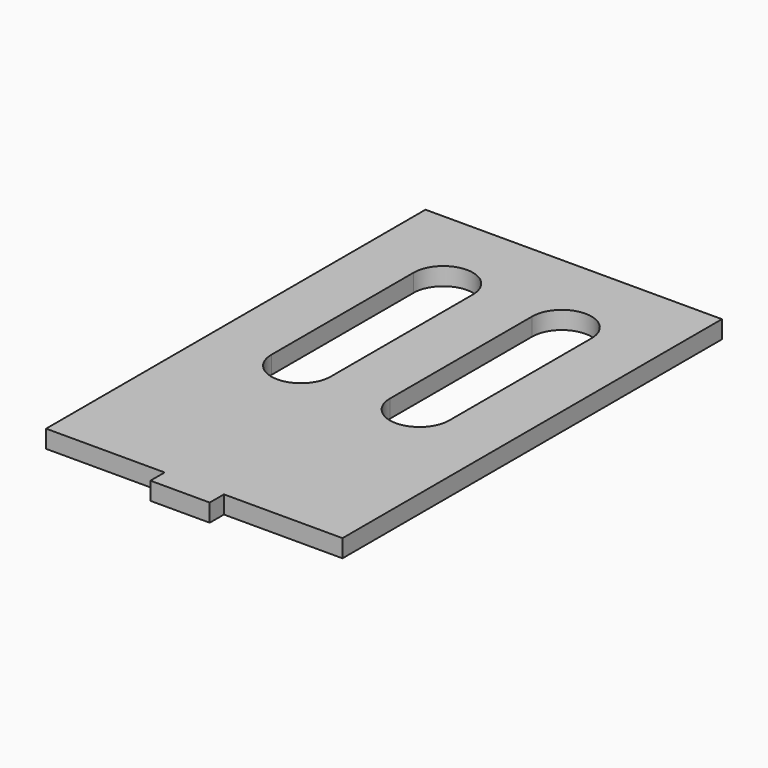
from build123d import *

# Parameters (mm, degrees)
F1_DEPTH = 3
F3_DEPTH = 3


with BuildPart() as f1:
    # F0 (on Top) → F1 (new body)
    with BuildSketch(Plane.XY):
        Polygon((25, -40), (25, 40), (-25, 40), (-25, -40), (-5, -40), (-5, -43), (5, -43), (5, -40), align=None)
    extrude(amount=F1_DEPTH)

    # F2 (on face) → F3 (cut, through all)
    with BuildSketch(Plane.XY.offset(3)):
        with BuildLine():
            ThreePointArc((-5, 25), (-10, 30), (-15, 25))
            Line((-15, 25), (-15, -5))
            ThreePointArc((-15, -5), (-10, -10), (-5, -5))
            Line((-5, -5), (-5, 25))
        make_face()
        with BuildLine():
            ThreePointArc((15, 25), (10, 30), (5, 25))
            Line((5, 25), (5, -5))
            ThreePointArc((5, -5), (10, -10), (15, -5))
            Line((15, -5), (15, 25))
        make_face()
    extrude(amount=-F3_DEPTH, mode=Mode.SUBTRACT)


solid = f1.part
